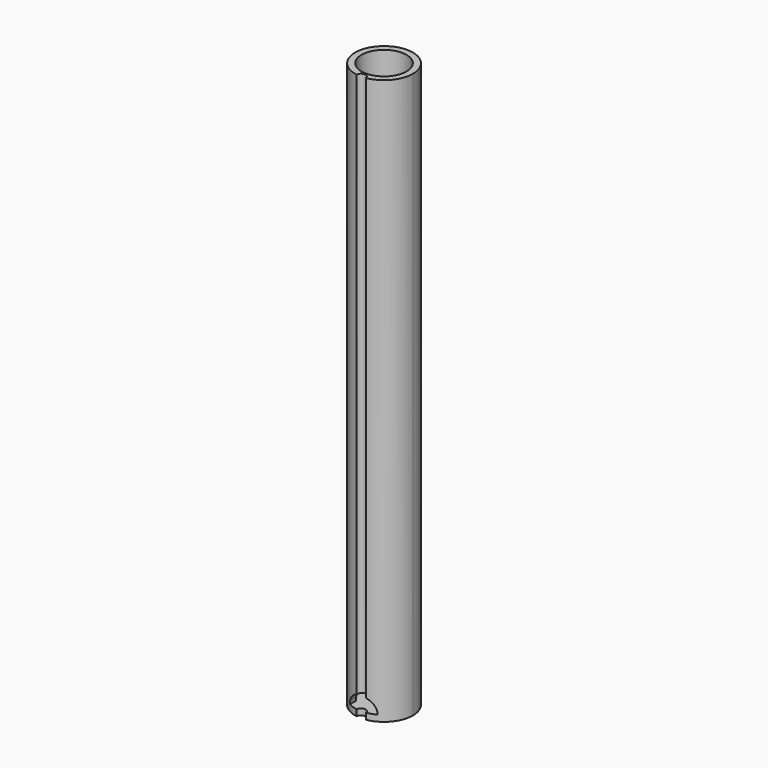
from build123d import *

# Parameters (mm, degrees)
F0_R     = 9.3
F1_DEPTH = 2
F2_R     = 9.3
F2_R_2   = 7.25
F3_DEPTH = 180
F5_DEPTH = 9.301
F6_DEPTH = 9.3010001
F8_DEPTH = 182.0010001


with BuildPart() as f1:
    # F0 (on Top) → F1 (new body)
    with BuildSketch(Plane.XY):
        Circle(F0_R)
    extrude(amount=F1_DEPTH)

    # F2 (on face) → F3 (join)
    with BuildSketch(Plane.XY.offset(2)):
        Circle(F2_R)
        Circle(F2_R_2, mode=Mode.SUBTRACT)
    extrude(amount=F3_DEPTH)

    # F4 (on Front) → F5 (cut, through all)
    with BuildSketch(Plane.XZ):
        with BuildLine():
            ThreePointArc((0, 6.4653703012), (-3.1574936205, 5.1574936205), (-4.4653703012, 2))
            Line((-4.4653703012, 2), (4.4653703012, 2))
            ThreePointArc((4.4653703012, 2), (3.1574936205, 5.1574936205), (0, 6.4653703012))
        make_face()
    extrude(amount=-F5_DEPTH, mode=Mode.SUBTRACT)

    # F4 (on Front) → F6 (cut, through all)
    with BuildSketch(Plane.XZ):
        with BuildLine():
            ThreePointArc((0, 6.4653703012), (-3.1574936205, 5.1574936205), (-4.4653703012, 2))
            Line((-4.4653703012, 2), (4.4653703012, 2))
            ThreePointArc((4.4653703012, 2), (3.1574936205, 5.1574936205), (0, 6.4653703012))
        make_face()
    extrude(amount=F6_DEPTH, mode=Mode.SUBTRACT)

    # F7 (on face) → F8 (cut, through all)
    with BuildSketch(Plane.XY.offset(182)):
        with BuildLine():
            ThreePointArc((-1.4951143118, -9.1790322581), (0, -9.3), (1.4951143118, -9.1790322581))
            ThreePointArc((1.4951143118, -9.1790322581), (0, -7.8), (-1.4951143118, -9.1790322581))
        make_face()
    extrude(amount=-F8_DEPTH, mode=Mode.SUBTRACT)


solid = f1.part
